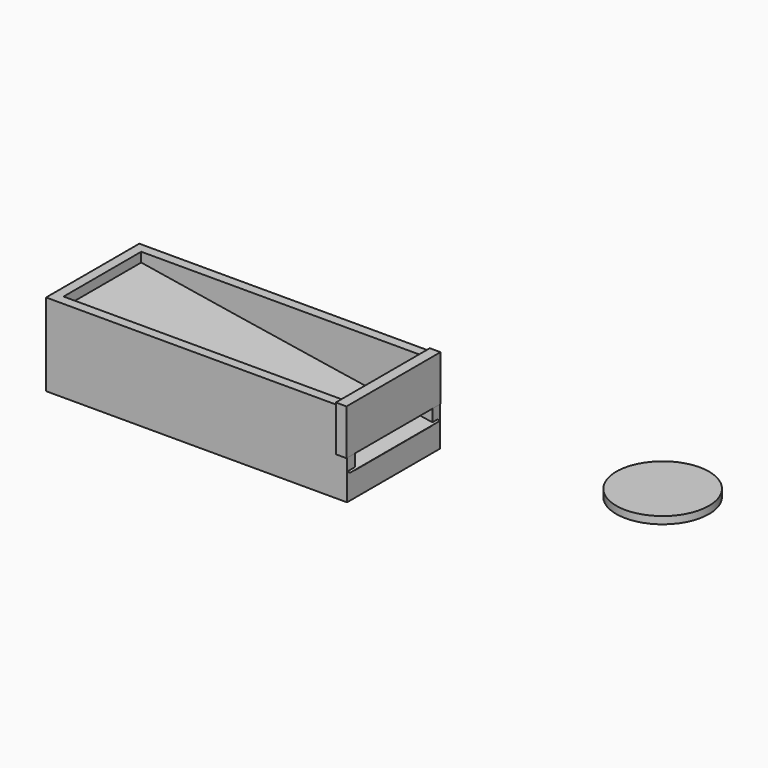
from build123d import *

# Parameters (mm, degrees)
F0_W      = 76.2
F0_H      = 25.4
F1_DEPTH  = 6.35
F0_H_2    = 2.5399950532
F0_H_3    = 2.5400049468
F2_DEPTH  = 19.05
F4_DEPTH  = 32.258
F5_DEPTH  = 2.794
F6_DEPTH  = 21.59
F8_START  = -23.114
F7_W      = 30.7340035215
F7_H      = 13.7160019949
F8_DEPTH  = 2.794
F9_R      = 12.1285
F10_DEPTH = 1.905
F11_DEPTH = 1.778


with BuildPart() as f1:
    # F0 (on Top) → F1 (new body)
    with BuildSketch(Plane.XY):
        with Locations((-61.2774978137, 17.9070052312)):
            Rectangle(F0_W, F0_H)
    extrude(amount=F1_DEPTH)



with BuildPart() as f2:
    # F0 (on Top) → F2 (new body)
    with BuildSketch(Plane.XY):
        with Locations((-61.2774978137, 31.8770027578)):
            Rectangle(F0_W, F0_H_2)
        with Locations((-61.2774978137, 3.9370027578)):
            Rectangle(F0_W, F0_H_3)
        Polygon((-99.3774978137, 5.2070052312), (-99.3774978137, 30.6070052312), (-99.3774978137, 33.1470002844), (-101.9174978137, 33.1470002844), (-101.9174978137, 2.6670002844), (-99.3774978137, 2.6670002844), align=None)
    extrude(amount=F2_DEPTH)

    # F3 (on Front) → F4 (join)
    with BuildSketch(Plane.XZ):
        with BuildLine():
            ThreePointArc((-22.5064698607, 6.9721243344), (-61.1948049528, 12.9814471102), (-99.8537540436, 19.1770009696))
            Line((-99.8537540436, 19.1770009696), (-99.8537540436, 6.9721243344))
            Line((-99.8537540436, 6.9721243344), (-22.5064698607, 6.9721243344))
        make_face()
    extrude(amount=-F4_DEPTH)

    # F5 (cut): a face of the model
    f5_faces = [f2.faces().sort_by_distance(p)[0] for p in [
        (-74.2070811501, 0, 11.0193779439),
    ]]
    extrude(f5_faces, amount=-F5_DEPTH, mode=Mode.SUBTRACT)


with BuildPart() as f1_1:
    add(f1.part)

    add(f2.part)  # F6 merges F2
    # F0 (on Top) → F6 (join)
    with BuildSketch(Plane.XY):
        with Locations((-61.2774978137, 3.9370027578)):
            Rectangle(F0_W, F0_H_3)
        Polygon((-99.3774978137, 5.2070052312), (-99.3774978137, 30.6070052312), (-99.3774978137, 33.1470002844), (-101.9174978137, 33.1470002844), (-101.9174978137, 2.6670002844), (-99.3774978137, 2.6670002844), align=None)
        with Locations((-61.2774978137, 31.8770027578)):
            Rectangle(F0_W, F0_H_2)
    extrude(amount=F6_DEPTH)

    # F7 (on Right) → F8 (join)
    with BuildSketch(Plane.YZ.offset(F8_START)):
        with Locations((17.7800017409, 15.3670008294)):
            Rectangle(F7_W, F7_H)
    extrude(amount=-F8_DEPTH)

    # F11 (cut): a face of the model
    f11_faces = [f1_1.faces().sort_by_distance(p)[0] for p in [
        (-24.5048834941, 17.7555399207, 8.508999832),
    ]]
    extrude(f11_faces, amount=-F11_DEPTH, mode=Mode.SUBTRACT)


with BuildPart() as f10:
    # F9 (on Top) → F10 (new body)
    with BuildSketch(Plane.XY):
        with Locations((25.6830565631, 44.8146127164)):
            Circle(F9_R)
    extrude(amount=F10_DEPTH)


solid = Compound([f1_1.part, f10.part])
